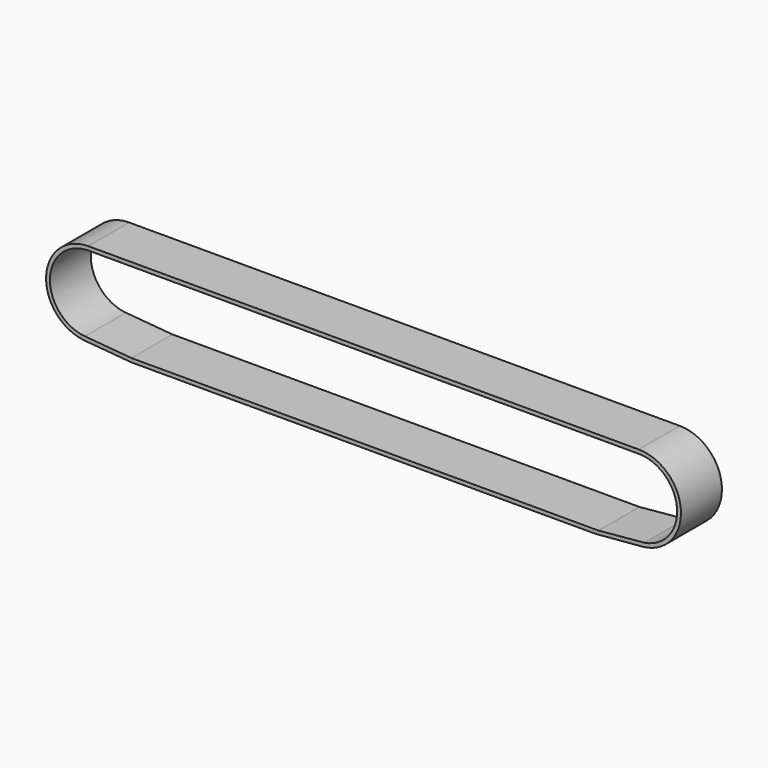
from build123d import *

# Parameters (mm, degrees)
F1_DEPTH = 80


with BuildPart() as f1:
    # F0 (on Front) → F1 (new body)
    with BuildSketch(Plane.XZ):
        with BuildLine():
            Line((860, 66), (0, 66))
            ThreePointArc((0, 66), (-65.940222, 2.808408), (-5.611728, -65.760995))
            Line((-5.611728, -65.760995), (67.5, -72))
            Line((67.5, -72), (792.5, -72))
            Line((792.5, -72), (865.611728, -65.760995))
            ThreePointArc((865.611728, -65.760995), (925.940222, 2.808408), (860, 66))
        make_face()
        with BuildLine():
            ThreePointArc((-5.119395, -59.781199), (-59.945275, 2.562034), (0, 60))
            Line((0, 60), (860, 60))
            ThreePointArc((860, 60), (919.838684, 4.39681), (868.769977, -59.355602))
            Line((868.769977, -59.355602), (797.175727, -66))
            Line((797.175727, -66), (67.5, -66))
            Line((67.5, -66), (-5.119395, -59.781199))
        make_face(mode=Mode.SUBTRACT)
    extrude(amount=F1_DEPTH)


solid = f1.part
